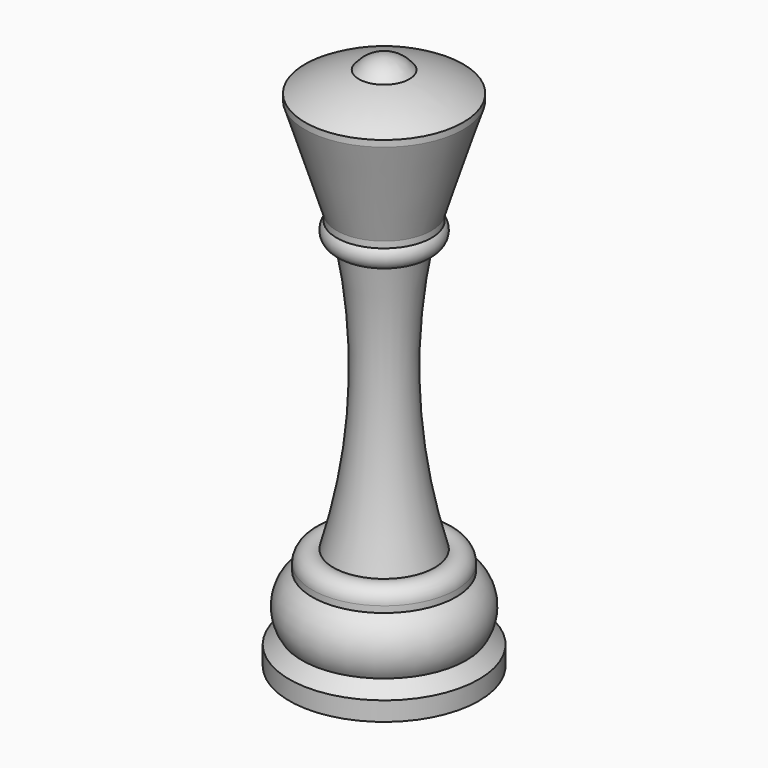
from build123d import *


with BuildPart() as f1:
    # F0 (on Front) → F1 (revolve)
    with BuildSketch(Plane.XZ):
        with BuildLine():
            Line((12.5, -6.27), (12.5, -5.27))
            ThreePointArc((12.5, -5.27), (8.40016, -3.244675), (4, -2))
            ThreePointArc((4, -2), (2.236068, -0.527864), (0, 0))
            Line((0, 0), (0, -85))
            Line((0, -85), (15, -85))
            Line((15, -85), (15, -82))
            Line((15, -82), (13, -80))
            ThreePointArc((13, -80), (13.887665, -75.527781), (11.375418, -71.722876))
            Line((11.375418, -71.722876), (11.375418, -70.722876))
            ThreePointArc((11.375418, -70.722876), (10.257549, -68.761152), (8, -68.722876))
            ThreePointArc((8, -68.722876), (4.460945, -47.627558), (6, -26.292876))
            ThreePointArc((6, -26.292876), (7.822876, -25.115751), (7.5, -22.97))
            Line((7.5, -22.97), (7.5, -21.97))
            Line((7.5, -21.97), (12.5, -6.27))
        make_face()
    revolve(axis=Axis((0, 0, -42.5), (0, 0, 1)))


solid = f1.part
